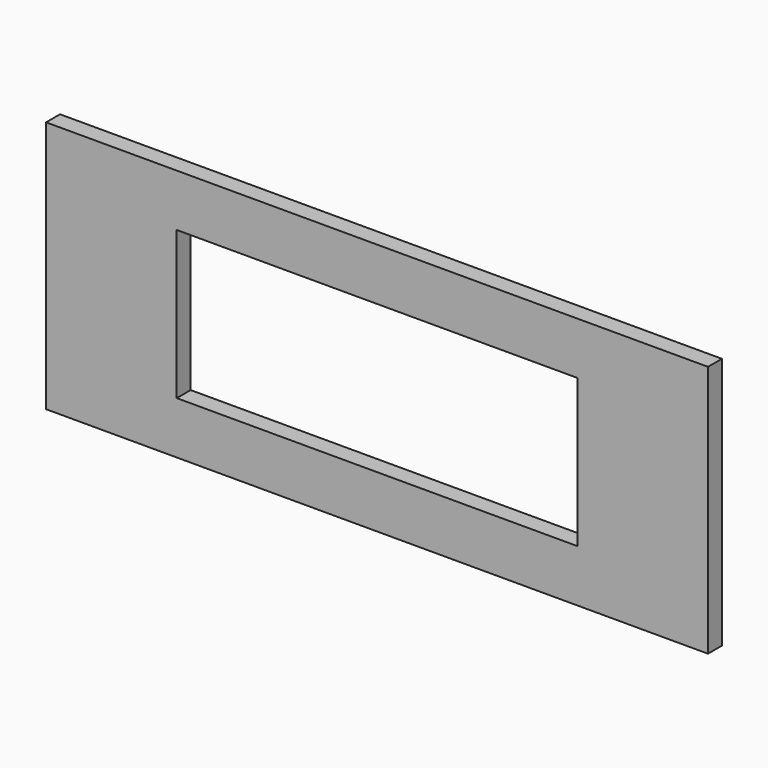
from build123d import *

# Parameters (mm, degrees)
SKETCH_W   = 760
SKETCH_H   = 290
SKETCH_W_2 = 460
SKETCH_H_2 = 170
PAD_DEPTH  = 20


with BuildPart() as part:
    # Sketch → Pad (new body)
    with BuildSketch(Plane.XZ):
        with Locations((0, 145)):
            Rectangle(SKETCH_W, SKETCH_H)
        with Locations((0, 145)):
            Rectangle(SKETCH_W_2, SKETCH_H_2, mode=Mode.SUBTRACT)
    extrude(amount=PAD_DEPTH)


solid = part.part
